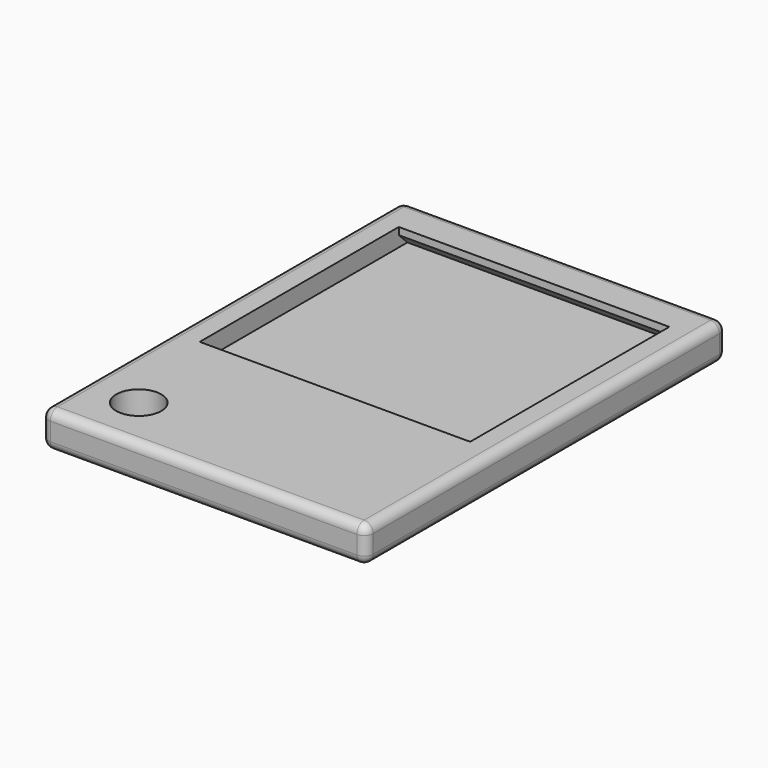
from build123d import *

# Parameters (mm, degrees)
F0_W          = 36
F0_H          = 50
F1_DEPTH      = 4
F2_W          = 30
F2_H          = 30
F3_DEPTH      = 2
F4_R          = 1
F6_DEPTH      = 15
F6_DEPTH_BACK = 15
F8_DEPTH      = 15
F8_DEPTH_BACK = 15
F9_R          = 2.5
F10_DEPTH     = 4.001


with BuildPart() as f1:
    # F0 (on Top) → F1 (new body)
    with BuildSketch(Plane.XY):
        Rectangle(F0_W, F0_H)
    extrude(amount=F1_DEPTH)

    # F2 (on face) → F3 (cut)
    with BuildSketch(Plane.XY.offset(4)):
        with Locations((0, 7)):
            Rectangle(F2_W, F2_H)
    extrude(amount=-F3_DEPTH, mode=Mode.SUBTRACT)

    # F4
    f4_edges = [f1.edges().sort_by_distance(p)[0] for p in [
        (0, -25, 4),
        (18, 0, 4),
        (0, 25, 4),
        (-18, 0, 4),
        (18, -25, 2),
        (-18, -25, 2),
        (18, 25, 2),
        (18, 0, 0),
        (0, -25, 0),
        (-18, 0, 0),
        (0, 25, 0),
        (-18, 25, 2),
    ]]
    fillet(f4_edges, radius=F4_R)

    # F5 (on Right) → F6 (join, two sides)
    with BuildSketch(Plane.YZ) as f6_sk:
        Polygon((-6.8, 4), (-8, 4), (-8, 2), (-6.8, 3.2), align=None)
    extrude(amount=F6_DEPTH)
    extrude(f6_sk.sketch, amount=-F6_DEPTH_BACK)

    # F7 (on Right) → F8 (join, two sides)
    with BuildSketch(Plane.YZ) as f8_sk:
        Polygon((22, 2), (22, 4), (20.8, 4), (20.8, 3.2), align=None)
    extrude(amount=F8_DEPTH)
    extrude(f8_sk.sketch, amount=-F8_DEPTH_BACK)

    # F9 (on face) → F10 (cut, through all)
    with BuildSketch(Plane.XY.offset(4)):
        with Locations((-12, -19)):
            Circle(F9_R)
    extrude(amount=-F10_DEPTH, mode=Mode.SUBTRACT)


solid = f1.part
